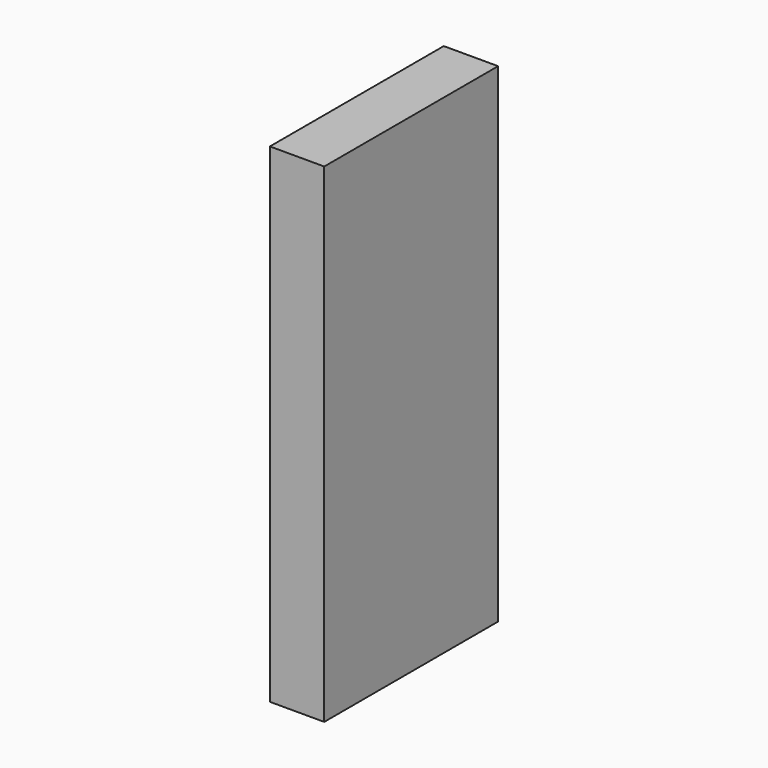
from build123d import *

# Parameters (mm, degrees)
BOX_W     = 2
BOX_H     = 8
BOX_DEPTH = 18


with BuildPart() as part:
    # Box → Box (new body)
    with BuildSketch(Plane.XY):
        with Locations((1, 4)):
            Rectangle(BOX_W, BOX_H)
    extrude(amount=BOX_DEPTH)


solid = part.part
